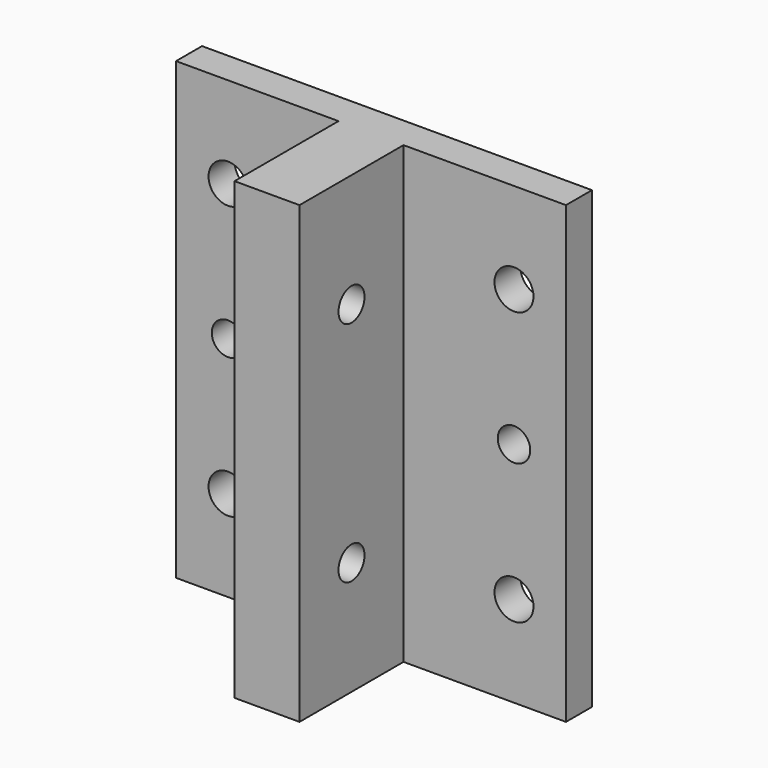
from build123d import *

# Parameters (mm, degrees)
F0_W     = 60
F0_H     = 70
F0_R     = 3
F0_R_2   = 2.5
F1_DEPTH = 5
F2_W     = 10
F2_H     = 70
F3_DEPTH = 20
F5_D     = 5
F5_DEPTH = 40


with BuildPart() as f1:
    # F0 (on Front) → F1 (new body)
    with BuildSketch(Plane.XZ):
        Rectangle(F0_W, F0_H)
        with Locations((-22, -21)):
            Circle(F0_R, mode=Mode.SUBTRACT)
        with Locations((22, -21)):
            Circle(F0_R, mode=Mode.SUBTRACT)
        with Locations((-22, 0)):
            Circle(F0_R_2, mode=Mode.SUBTRACT)
        with Locations((-22, 21)):
            Circle(F0_R, mode=Mode.SUBTRACT)
        with Locations((22, 0)):
            Circle(F0_R_2, mode=Mode.SUBTRACT)
        with Locations((22, 21)):
            Circle(F0_R, mode=Mode.SUBTRACT)
    extrude(amount=F1_DEPTH)

    # F2 (on face) → F3 (join)
    with BuildSketch(Plane.XZ.offset(5)):
        Rectangle(F2_W, F2_H)
    extrude(amount=F3_DEPTH)

    # F5
    with Locations(Plane.YZ.offset(5)):
        with Locations((-15, 17.5), (-15, -17.5)):
            Hole(F5_D / 2, depth=F5_DEPTH)


solid = f1.part
